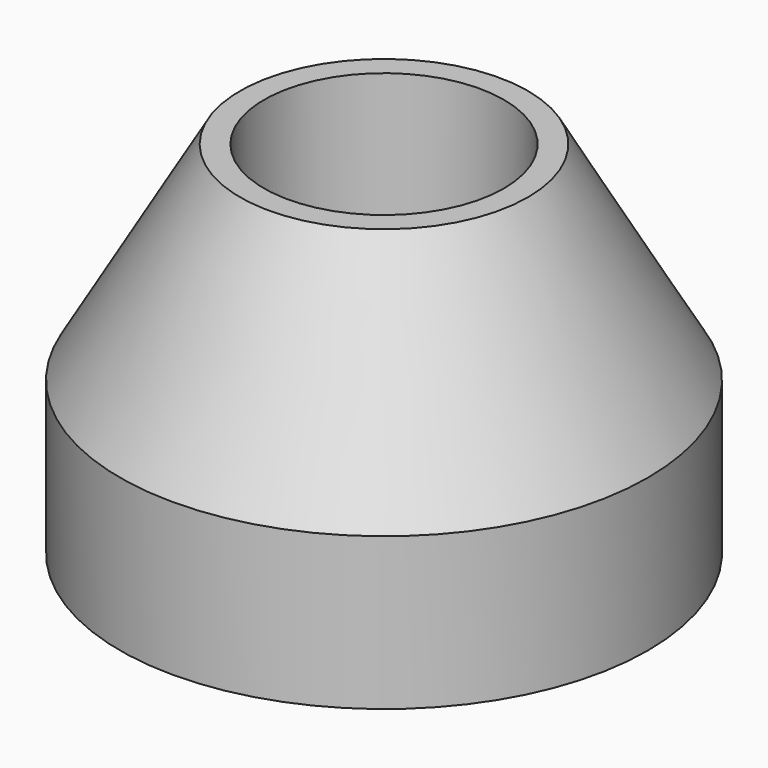
from build123d import *

# Parameters (mm, degrees)
F0_R     = 2.2
F0_R_2   = 1
F1_DEPTH = 3
F2_SIZE2 = 1.7320508076
F2_SIZE  = 1


with BuildPart() as f1:
    # F0 (on Top) → F1 (new body)
    with BuildSketch(Plane.XY):
        Circle(F0_R)
        Circle(F0_R_2, mode=Mode.SUBTRACT)
    extrude(amount=F1_DEPTH)

    # F2
    f2_edges = [f1.edges().sort_by_distance(p)[0] for p in [
        (-2.2, 0, 3),
    ]]
    f2_side = f1.faces().sort_by_distance((-2.137775, 0, 3))[0]
    chamfer(f2_edges, length=F2_SIZE, length2=F2_SIZE2, reference=f2_side)


solid = f1.part
